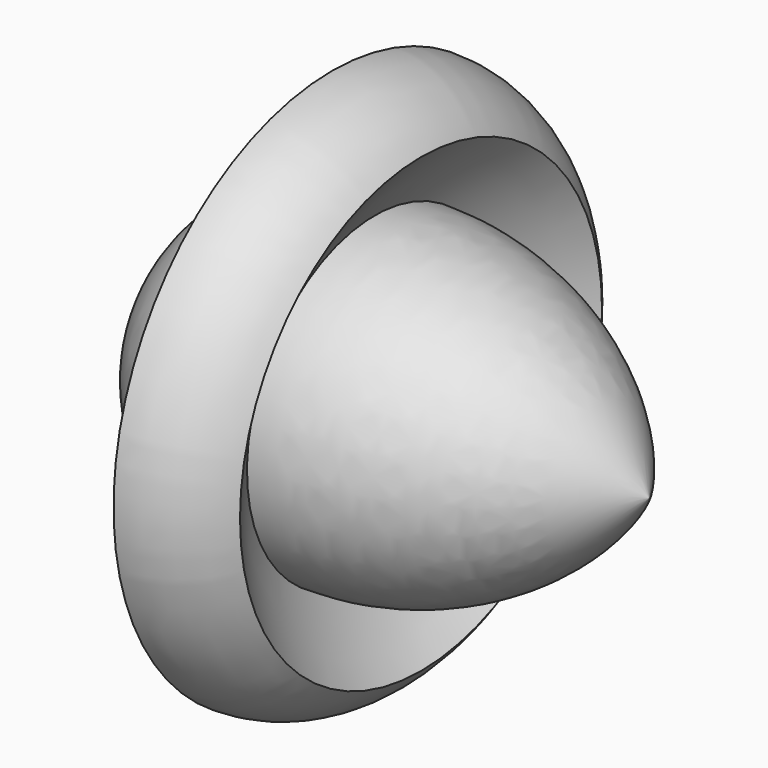
from build123d import *


with BuildPart() as f1:
    # F0 (on Front) → F1 (revolve)
    with BuildSketch(Plane.XZ):
        with BuildLine():
            Line((51.78125, 0), (-27.054928, 0))
            ThreePointArc((-27.054928, 0), (-19.130723, -19.130723), (0, -27.054928))
            Line((0, -27.054928), (0, -44.625492))
            ThreePointArc((0, -44.625492), (8.210016, -42.589417), (14.51728, -36.953073))
            ThreePointArc((14.51728, -36.953073), (10.42205, -31.75316), (6.973501, -26.103601))
            ThreePointArc((6.973501, -26.103601), (32.901924, -19.101811), (51.78125, 0))
        make_face()
    revolve(axis=Axis((12.363161, 0, 0), (-1, 0, 0)))


solid = f1.part
